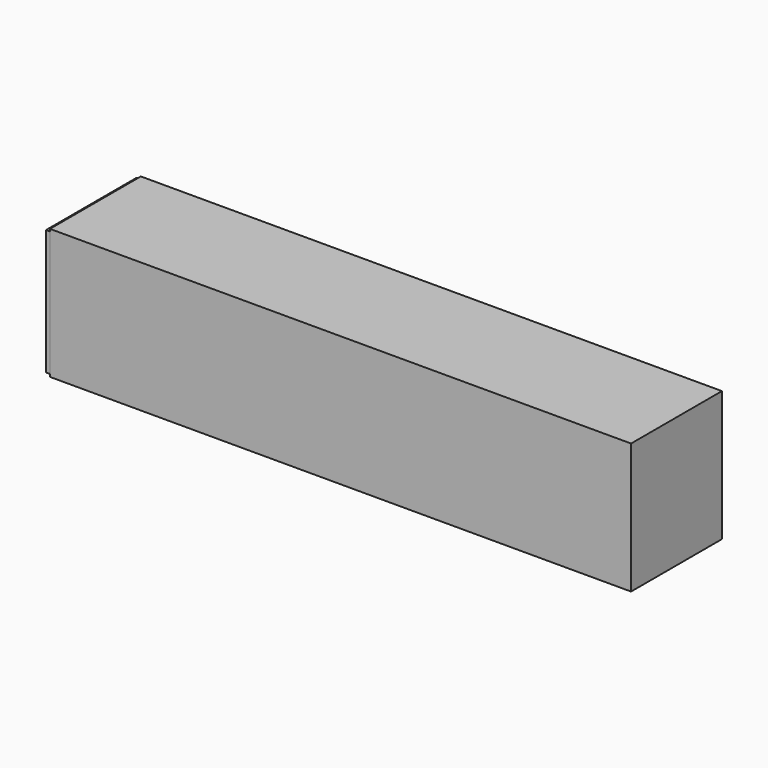
from build123d import *

# Parameters (mm, degrees)
F1_DEPTH = 2697
F2_W     = 2340
F2_H     = 50
F3_DEPTH = 84


with BuildPart() as f1:
    # F0 (on Top) → F1 (new body)
    with BuildSketch(Plane.XY):
        Polygon((-6012, -1175), (6012, -1175), (6012, 1175), (-6012, 1175), (-6012, 1170), (-6096, 1170), (-6096, -1170), (-6012, -1170), align=None)
    extrude(amount=F1_DEPTH)

    # F2 (on face) → F3 (cut, through all)
    with BuildSketch(Plane(origin=(-6096, 0, 0), x_dir=(0, -1, 0), z_dir=(-1, 0, 0))):
        with Locations((0, 2672)):
            Rectangle(F2_W, F2_H)
        with Locations((0, 25)):
            Rectangle(F2_W, F2_H)
    extrude(amount=-F3_DEPTH, mode=Mode.SUBTRACT)


solid = f1.part
